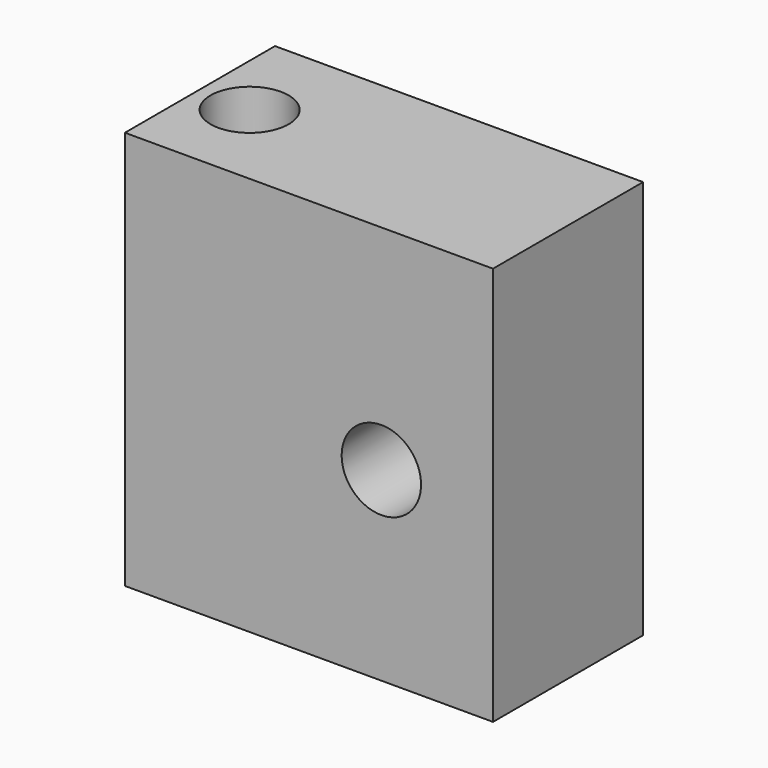
from build123d import *

# Parameters (mm, degrees)
F0_W     = 23.546827
F0_H     = 25.524346
F1_DEPTH = 12
F3_D     = 5
F6_D     = 5.08


with BuildPart() as f1:
    # F0 (on Front) → F1 (new body)
    with BuildSketch(Plane.XZ):
        with Locations((-16.37222, 12.762173)):
            Rectangle(F0_W, F0_H)
    extrude(amount=F1_DEPTH)

    # F3 (through all)
    with Locations(Plane.XY.offset(25.524346)):
        with Locations((-24.82892, -6.173369)):
            Hole(F3_D / 2)

    # F6 (through all)
    with Locations(Plane.XZ.offset(12)):
        with Locations((-11.741878, 11.862813)):
            Hole(F6_D / 2)


solid = f1.part
